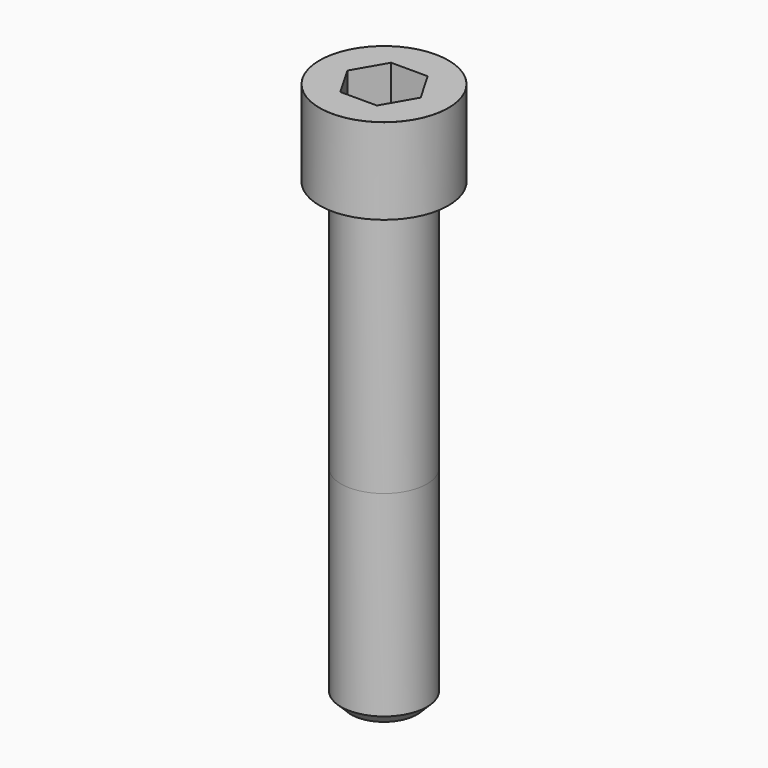
from build123d import *

# Parameters (mm, degrees)
POCKET_DEPTH = 22.15


with BuildPart() as part:
    # Sketch → Revolve (revolve)
    with BuildSketch(Plane.YZ):
        with BuildLine():
            Line((14.999, 0), (22.5, 0))
            Line((22.5, 0), (22.5, 29.97229))
            ThreePointArc((22.5, 29.97229), (22.491884, 29.991884), (22.47229, 30))
            Line((22.47229, 30), (0, 30))
            Line((0, -160), (0, 30))
            Line((11.5, -160), (0, -160))
            Line((15, -156.5), (11.5, -160))
            Line((15, -88), (15, -156.5))
            Line((14.999, 0), (15, -88))
        make_face()
    revolve(axis=Axis((0, 0, 0), (0, 0, 1)))

    # Sketch001 → Pocket (cut)
    with BuildSketch(Plane.XY.offset(30)):
        Polygon((12.788308, 0), (6.394154, 11.075), (-6.394154, 11.075), (-12.788308, 0), (-6.394154, -11.075), (6.394154, -11.075), align=None)
    extrude(amount=-POCKET_DEPTH, mode=Mode.SUBTRACT)


solid = part.part
